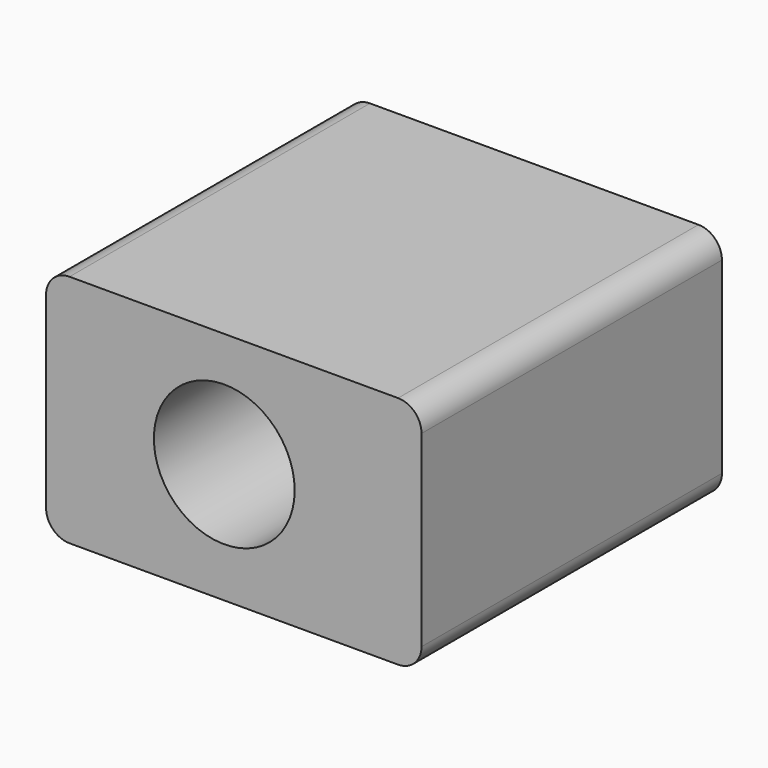
from build123d import *

# Parameters (mm, degrees)
F0_W     = 80
F0_H     = 50
F1_DEPTH = 80
F2_R     = 15
F3_DEPTH = 60
F4_R     = 5


with BuildPart() as f1:
    # F0 (on Front) → F1 (new body)
    with BuildSketch(Plane.XZ):
        with Locations((2.032589, 3.78601)):
            Rectangle(F0_W, F0_H)
    extrude(amount=F1_DEPTH)

    # F2 (on face) → F3 (cut)
    with BuildSketch(Plane.XZ.offset(80)):
        with Locations((0, 4.305844)):
            Circle(F2_R)
    extrude(amount=-F3_DEPTH, mode=Mode.SUBTRACT)

    # F4
    f4_edges = [f1.edges().sort_by_distance(p)[0] for p in [
        (-37.967411, -40, 28.78601),
        (42.032589, -40, 28.78601),
        (-37.967411, -40, -21.21399),
        (42.032589, -40, -21.21399),
    ]]
    fillet(f4_edges, radius=F4_R)


solid = f1.part
